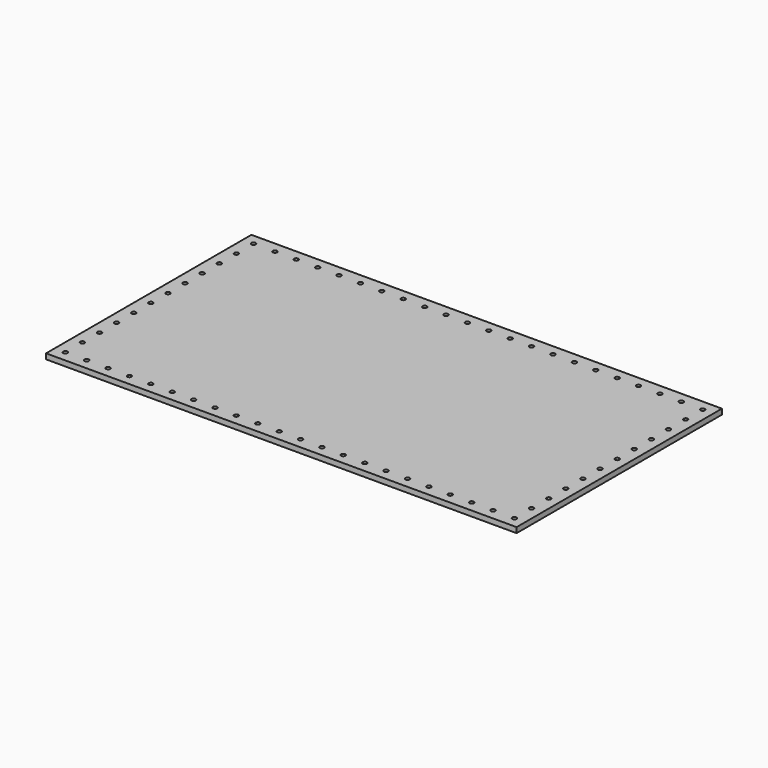
from build123d import *

# Parameters (mm, degrees)
F0_W     = 558.8
F0_H     = 304.8
F0_R     = 2.5527
F1_DEPTH = 6.35


with BuildPart() as f1:
    # F0 (on Top) → F1 (new body)
    with BuildSketch(Plane.XY):
        with Locations((99.457341, -1.978547)):
            Rectangle(F0_W, F0_H)
        with Locations((-167.242659, -141.678547)):
            Circle(F0_R, mode=Mode.SUBTRACT)
        with Locations((-141.842659, -141.678547)):
            Circle(F0_R, mode=Mode.SUBTRACT)
        with Locations((-116.442659, -141.678547)):
            Circle(F0_R, mode=Mode.SUBTRACT)
        with Locations((-167.242659, -116.278547)):
            Circle(F0_R, mode=Mode.SUBTRACT)
        with Locations((-91.042659, -141.678547)):
            Circle(F0_R, mode=Mode.SUBTRACT)
        with Locations((-65.642659, -141.678547)):
            Circle(F0_R, mode=Mode.SUBTRACT)
        with Locations((-167.242659, -90.878547)):
            Circle(F0_R, mode=Mode.SUBTRACT)
        with Locations((-40.242659, -141.678547)):
            Circle(F0_R, mode=Mode.SUBTRACT)
        with Locations((-14.842659, -141.678547)):
            Circle(F0_R, mode=Mode.SUBTRACT)
        with Locations((10.557341, -141.678547)):
            Circle(F0_R, mode=Mode.SUBTRACT)
        with Locations((35.957341, -141.678547)):
            Circle(F0_R, mode=Mode.SUBTRACT)
        with Locations((61.357341, -141.678547)):
            Circle(F0_R, mode=Mode.SUBTRACT)
        with Locations((86.757341, -141.678547)):
            Circle(F0_R, mode=Mode.SUBTRACT)
        with Locations((-167.242659, -65.478547)):
            Circle(F0_R, mode=Mode.SUBTRACT)
        with Locations((-167.242659, -40.078547)):
            Circle(F0_R, mode=Mode.SUBTRACT)
        with Locations((-167.242659, -14.678547)):
            Circle(F0_R, mode=Mode.SUBTRACT)
        with Locations((112.157341, -141.678547)):
            Circle(F0_R, mode=Mode.SUBTRACT)
        with Locations((137.557341, -141.678547)):
            Circle(F0_R, mode=Mode.SUBTRACT)
        with Locations((162.957341, -141.678547)):
            Circle(F0_R, mode=Mode.SUBTRACT)
        with Locations((188.357341, -141.678547)):
            Circle(F0_R, mode=Mode.SUBTRACT)
        with Locations((213.757341, -141.678547)):
            Circle(F0_R, mode=Mode.SUBTRACT)
        with Locations((239.157341, -141.678547)):
            Circle(F0_R, mode=Mode.SUBTRACT)
        with Locations((264.557341, -141.678547)):
            Circle(F0_R, mode=Mode.SUBTRACT)
        with Locations((289.957341, -141.678547)):
            Circle(F0_R, mode=Mode.SUBTRACT)
        with Locations((315.357341, -141.678547)):
            Circle(F0_R, mode=Mode.SUBTRACT)
        with Locations((340.757341, -141.678547)):
            Circle(F0_R, mode=Mode.SUBTRACT)
        with Locations((366.157341, -141.678547)):
            Circle(F0_R, mode=Mode.SUBTRACT)
        with Locations((366.157341, -116.278547)):
            Circle(F0_R, mode=Mode.SUBTRACT)
        with Locations((366.157341, -90.878547)):
            Circle(F0_R, mode=Mode.SUBTRACT)
        with Locations((366.157341, -65.478547)):
            Circle(F0_R, mode=Mode.SUBTRACT)
        with Locations((366.157341, -40.078547)):
            Circle(F0_R, mode=Mode.SUBTRACT)
        with Locations((366.157341, -14.678547)):
            Circle(F0_R, mode=Mode.SUBTRACT)
        with Locations((-167.242659, 10.721453)):
            Circle(F0_R, mode=Mode.SUBTRACT)
        with Locations((-167.242659, 36.121453)):
            Circle(F0_R, mode=Mode.SUBTRACT)
        with Locations((-167.242659, 61.521453)):
            Circle(F0_R, mode=Mode.SUBTRACT)
        with Locations((-167.242659, 86.921453)):
            Circle(F0_R, mode=Mode.SUBTRACT)
        with Locations((-167.242659, 112.321453)):
            Circle(F0_R, mode=Mode.SUBTRACT)
        with Locations((-167.242659, 137.721453)):
            Circle(F0_R, mode=Mode.SUBTRACT)
        with Locations((-141.842659, 137.721453)):
            Circle(F0_R, mode=Mode.SUBTRACT)
        with Locations((-116.442659, 137.721453)):
            Circle(F0_R, mode=Mode.SUBTRACT)
        with Locations((-91.042659, 137.721453)):
            Circle(F0_R, mode=Mode.SUBTRACT)
        with Locations((-65.642659, 137.721453)):
            Circle(F0_R, mode=Mode.SUBTRACT)
        with Locations((-40.242659, 137.721453)):
            Circle(F0_R, mode=Mode.SUBTRACT)
        with Locations((-14.842659, 137.721453)):
            Circle(F0_R, mode=Mode.SUBTRACT)
        with Locations((10.557341, 137.721453)):
            Circle(F0_R, mode=Mode.SUBTRACT)
        with Locations((35.957341, 137.721453)):
            Circle(F0_R, mode=Mode.SUBTRACT)
        with Locations((61.357341, 137.721453)):
            Circle(F0_R, mode=Mode.SUBTRACT)
        with Locations((86.757341, 137.721453)):
            Circle(F0_R, mode=Mode.SUBTRACT)
        with Locations((366.157341, 10.721453)):
            Circle(F0_R, mode=Mode.SUBTRACT)
        with Locations((366.157341, 36.121453)):
            Circle(F0_R, mode=Mode.SUBTRACT)
        with Locations((366.157341, 61.521453)):
            Circle(F0_R, mode=Mode.SUBTRACT)
        with Locations((112.157341, 137.721453)):
            Circle(F0_R, mode=Mode.SUBTRACT)
        with Locations((137.557341, 137.721453)):
            Circle(F0_R, mode=Mode.SUBTRACT)
        with Locations((162.957341, 137.721453)):
            Circle(F0_R, mode=Mode.SUBTRACT)
        with Locations((188.357341, 137.721453)):
            Circle(F0_R, mode=Mode.SUBTRACT)
        with Locations((213.757341, 137.721453)):
            Circle(F0_R, mode=Mode.SUBTRACT)
        with Locations((366.157341, 86.921453)):
            Circle(F0_R, mode=Mode.SUBTRACT)
        with Locations((239.157341, 137.721453)):
            Circle(F0_R, mode=Mode.SUBTRACT)
        with Locations((264.557341, 137.721453)):
            Circle(F0_R, mode=Mode.SUBTRACT)
        with Locations((289.957341, 137.721453)):
            Circle(F0_R, mode=Mode.SUBTRACT)
        with Locations((366.157341, 112.321453)):
            Circle(F0_R, mode=Mode.SUBTRACT)
        with Locations((315.357341, 137.721453)):
            Circle(F0_R, mode=Mode.SUBTRACT)
        with Locations((340.757341, 137.721453)):
            Circle(F0_R, mode=Mode.SUBTRACT)
        with Locations((366.157341, 137.721453)):
            Circle(F0_R, mode=Mode.SUBTRACT)
        with Locations((99.457341, -1.978547)):
            Rectangle(F0_W, F0_H)
        with Locations((-167.242659, -141.678547)):
            Circle(F0_R, mode=Mode.SUBTRACT)
        with Locations((-141.842659, -141.678547)):
            Circle(F0_R, mode=Mode.SUBTRACT)
        with Locations((-116.442659, -141.678547)):
            Circle(F0_R, mode=Mode.SUBTRACT)
        with Locations((-167.242659, -116.278547)):
            Circle(F0_R, mode=Mode.SUBTRACT)
        with Locations((-91.042659, -141.678547)):
            Circle(F0_R, mode=Mode.SUBTRACT)
        with Locations((-65.642659, -141.678547)):
            Circle(F0_R, mode=Mode.SUBTRACT)
        with Locations((-167.242659, -90.878547)):
            Circle(F0_R, mode=Mode.SUBTRACT)
        with Locations((-40.242659, -141.678547)):
            Circle(F0_R, mode=Mode.SUBTRACT)
        with Locations((-14.842659, -141.678547)):
            Circle(F0_R, mode=Mode.SUBTRACT)
        with Locations((10.557341, -141.678547)):
            Circle(F0_R, mode=Mode.SUBTRACT)
        with Locations((35.957341, -141.678547)):
            Circle(F0_R, mode=Mode.SUBTRACT)
        with Locations((61.357341, -141.678547)):
            Circle(F0_R, mode=Mode.SUBTRACT)
        with Locations((86.757341, -141.678547)):
            Circle(F0_R, mode=Mode.SUBTRACT)
        with Locations((-167.242659, -65.478547)):
            Circle(F0_R, mode=Mode.SUBTRACT)
        with Locations((-167.242659, -40.078547)):
            Circle(F0_R, mode=Mode.SUBTRACT)
        with Locations((-167.242659, -14.678547)):
            Circle(F0_R, mode=Mode.SUBTRACT)
        with Locations((112.157341, -141.678547)):
            Circle(F0_R, mode=Mode.SUBTRACT)
        with Locations((137.557341, -141.678547)):
            Circle(F0_R, mode=Mode.SUBTRACT)
        with Locations((162.957341, -141.678547)):
            Circle(F0_R, mode=Mode.SUBTRACT)
        with Locations((188.357341, -141.678547)):
            Circle(F0_R, mode=Mode.SUBTRACT)
        with Locations((213.757341, -141.678547)):
            Circle(F0_R, mode=Mode.SUBTRACT)
        with Locations((239.157341, -141.678547)):
            Circle(F0_R, mode=Mode.SUBTRACT)
        with Locations((264.557341, -141.678547)):
            Circle(F0_R, mode=Mode.SUBTRACT)
        with Locations((289.957341, -141.678547)):
            Circle(F0_R, mode=Mode.SUBTRACT)
        with Locations((315.357341, -141.678547)):
            Circle(F0_R, mode=Mode.SUBTRACT)
        with Locations((340.757341, -141.678547)):
            Circle(F0_R, mode=Mode.SUBTRACT)
        with Locations((366.157341, -141.678547)):
            Circle(F0_R, mode=Mode.SUBTRACT)
        with Locations((366.157341, -116.278547)):
            Circle(F0_R, mode=Mode.SUBTRACT)
        with Locations((366.157341, -90.878547)):
            Circle(F0_R, mode=Mode.SUBTRACT)
        with Locations((366.157341, -65.478547)):
            Circle(F0_R, mode=Mode.SUBTRACT)
        with Locations((366.157341, -40.078547)):
            Circle(F0_R, mode=Mode.SUBTRACT)
        with Locations((366.157341, -14.678547)):
            Circle(F0_R, mode=Mode.SUBTRACT)
        with Locations((-167.242659, 10.721453)):
            Circle(F0_R, mode=Mode.SUBTRACT)
        with Locations((-167.242659, 36.121453)):
            Circle(F0_R, mode=Mode.SUBTRACT)
        with Locations((-167.242659, 61.521453)):
            Circle(F0_R, mode=Mode.SUBTRACT)
        with Locations((-167.242659, 86.921453)):
            Circle(F0_R, mode=Mode.SUBTRACT)
        with Locations((-167.242659, 112.321453)):
            Circle(F0_R, mode=Mode.SUBTRACT)
        with Locations((-167.242659, 137.721453)):
            Circle(F0_R, mode=Mode.SUBTRACT)
        with Locations((-141.842659, 137.721453)):
            Circle(F0_R, mode=Mode.SUBTRACT)
        with Locations((-116.442659, 137.721453)):
            Circle(F0_R, mode=Mode.SUBTRACT)
        with Locations((-91.042659, 137.721453)):
            Circle(F0_R, mode=Mode.SUBTRACT)
        with Locations((-65.642659, 137.721453)):
            Circle(F0_R, mode=Mode.SUBTRACT)
        with Locations((-40.242659, 137.721453)):
            Circle(F0_R, mode=Mode.SUBTRACT)
        with Locations((-14.842659, 137.721453)):
            Circle(F0_R, mode=Mode.SUBTRACT)
        with Locations((10.557341, 137.721453)):
            Circle(F0_R, mode=Mode.SUBTRACT)
        with Locations((35.957341, 137.721453)):
            Circle(F0_R, mode=Mode.SUBTRACT)
        with Locations((61.357341, 137.721453)):
            Circle(F0_R, mode=Mode.SUBTRACT)
        with Locations((86.757341, 137.721453)):
            Circle(F0_R, mode=Mode.SUBTRACT)
        with Locations((366.157341, 10.721453)):
            Circle(F0_R, mode=Mode.SUBTRACT)
        with Locations((366.157341, 36.121453)):
            Circle(F0_R, mode=Mode.SUBTRACT)
        with Locations((366.157341, 61.521453)):
            Circle(F0_R, mode=Mode.SUBTRACT)
        with Locations((112.157341, 137.721453)):
            Circle(F0_R, mode=Mode.SUBTRACT)
        with Locations((137.557341, 137.721453)):
            Circle(F0_R, mode=Mode.SUBTRACT)
        with Locations((162.957341, 137.721453)):
            Circle(F0_R, mode=Mode.SUBTRACT)
        with Locations((188.357341, 137.721453)):
            Circle(F0_R, mode=Mode.SUBTRACT)
        with Locations((213.757341, 137.721453)):
            Circle(F0_R, mode=Mode.SUBTRACT)
        with Locations((366.157341, 86.921453)):
            Circle(F0_R, mode=Mode.SUBTRACT)
        with Locations((239.157341, 137.721453)):
            Circle(F0_R, mode=Mode.SUBTRACT)
        with Locations((264.557341, 137.721453)):
            Circle(F0_R, mode=Mode.SUBTRACT)
        with Locations((289.957341, 137.721453)):
            Circle(F0_R, mode=Mode.SUBTRACT)
        with Locations((366.157341, 112.321453)):
            Circle(F0_R, mode=Mode.SUBTRACT)
        with Locations((315.357341, 137.721453)):
            Circle(F0_R, mode=Mode.SUBTRACT)
        with Locations((340.757341, 137.721453)):
            Circle(F0_R, mode=Mode.SUBTRACT)
        with Locations((366.157341, 137.721453)):
            Circle(F0_R, mode=Mode.SUBTRACT)
    extrude(amount=F1_DEPTH)


solid = f1.part
